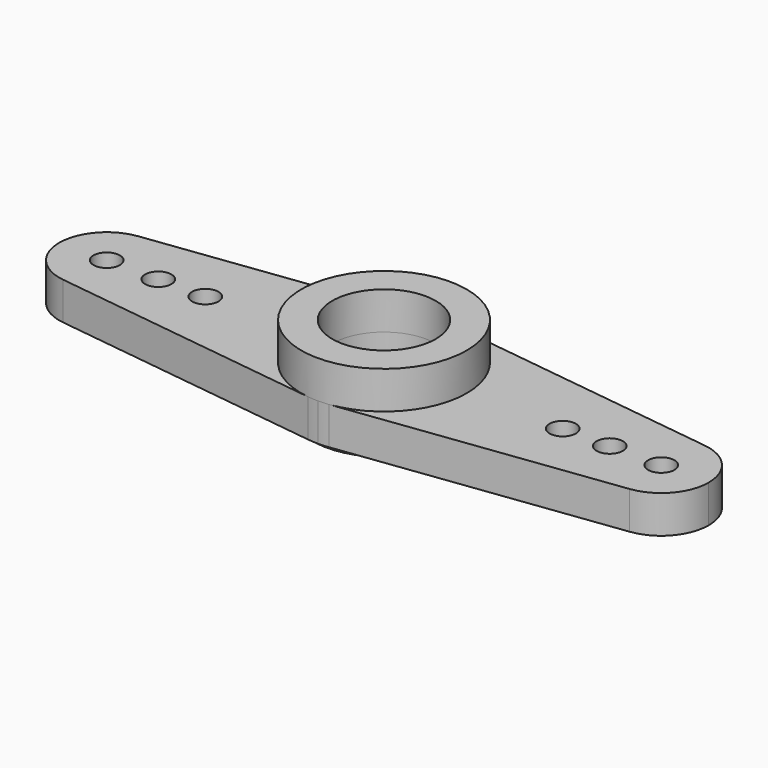
from build123d import *

# Parameters (mm, degrees)
F0_R     = 17.78
F1_DEPTH = 50.8
F2_R     = 111.76
F2_R_2   = 69.85
F3_DEPTH = 50.8
F4_R     = 69.85
F5_DEPTH = 83.82
F6_R     = 96.139
F6_R_2   = 69.85
F7_DEPTH = 11.43
F8_R     = 69.85
F9_DEPTH = 26.162


with BuildPart() as f1:
    # F0 (on Top) → F1 (new body)
    with BuildSketch(Plane.XY):
        with BuildLine():
            Line((223.52, 0), (34.925, 0))
            ThreePointArc((34.925, 0), (-24.695704, -24.695704), (0, 34.925))
            Line((0, 34.925), (0, 111.76))
            ThreePointArc((0, 111.76), (-7.141761, 111.531578), (-14.254328, 110.847245))
            Line((-14.254328, 110.847245), (-382.559843, 63.48524))
            ThreePointArc((-382.559843, 63.48524), (-422.45625, 42.275719), (-438.404, 0))
            ThreePointArc((-438.404, 0), (-422.45625, -42.275719), (-382.559843, -63.48524))
            Line((-382.559843, -63.48524), (-14.254328, -110.847245))
            ThreePointArc((-14.254328, -110.847245), (-7.141761, -111.531578), (0, -111.76))
            ThreePointArc((0, -111.76), (7.141761, -111.531578), (14.254328, -110.847245))
            Line((14.254328, -110.847245), (382.559843, -63.48524))
            ThreePointArc((382.559843, -63.48524), (422.45625, -42.275719), (438.404, 0))
            Line((438.404, 0), (392.176, 0))
            ThreePointArc((392.176, 0), (374.396, -17.78), (356.616, 0))
            Line((356.616, 0), (322.58, 0))
            ThreePointArc((322.58, 0), (304.8, -17.78), (287.02, 0))
            Line((287.02, 0), (259.08, 0))
            ThreePointArc((259.08, 0), (241.3, -17.78), (223.52, 0))
        make_face()
        with Locations((-374.396, 0)):
            Circle(F0_R, mode=Mode.SUBTRACT)
        with Locations((-304.8, 0)):
            Circle(F0_R, mode=Mode.SUBTRACT)
        with Locations((-241.3, 0)):
            Circle(F0_R, mode=Mode.SUBTRACT)
        with BuildLine():
            ThreePointArc((0, 34.925), (24.695704, 24.695704), (34.925, 0))
            Line((34.925, 0), (223.52, 0))
            ThreePointArc((223.52, 0), (241.3, 17.78), (259.08, 0))
            Line((259.08, 0), (287.02, 0))
            ThreePointArc((287.02, 0), (304.8, 17.78), (322.58, 0))
            Line((322.58, 0), (356.616, 0))
            ThreePointArc((356.616, 0), (374.396, 17.78), (392.176, 0))
            Line((392.176, 0), (438.404, 0))
            ThreePointArc((438.404, 0), (422.45625, 42.275719), (382.559843, 63.48524))
            Line((382.559843, 63.48524), (14.254328, 110.847245))
            ThreePointArc((14.254328, 110.847245), (7.141761, 111.531578), (0, 111.76))
            Line((0, 111.76), (0, 34.925))
        make_face()
    extrude(amount=F1_DEPTH)

    # F2 (on face) → F3 (join)
    with BuildSketch(Plane.XY.offset(50.8)):
        Circle(F2_R)
        Circle(F2_R_2, mode=Mode.SUBTRACT)
    extrude(amount=F3_DEPTH)

    # F4 (on face) → F5 (cut)
    with BuildSketch(Plane.XY.offset(101.6)):
        Circle(F4_R)
    extrude(amount=-F5_DEPTH, mode=Mode.SUBTRACT)

    # F6 (on face) → F7 (join)
    with BuildSketch(Plane(origin=(0, 0, 0), x_dir=(1, 0, 0), z_dir=(0, 0, -1))):
        Circle(F6_R)
        Circle(F6_R_2, mode=Mode.SUBTRACT)
    extrude(amount=F7_DEPTH)

    # F8 (on face) → F9 (cut)
    with BuildSketch(Plane(origin=(0, 0, -11.43), x_dir=(1, 0, 0), z_dir=(0, 0, -1))):
        Circle(F8_R)
    extrude(amount=-F9_DEPTH, mode=Mode.SUBTRACT)


solid = f1.part
